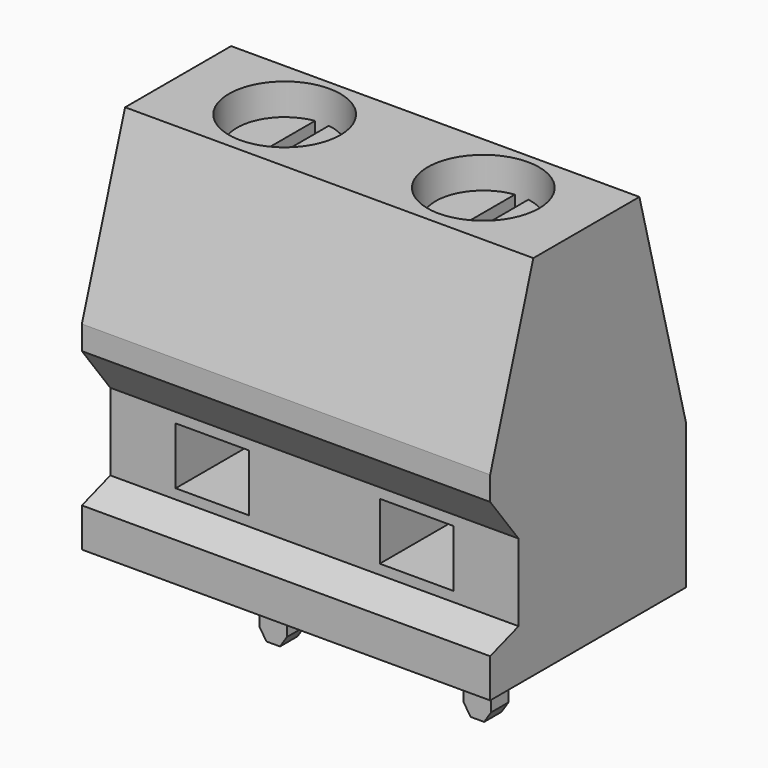
from build123d import *

# Parameters (mm, degrees)
F1_DEPTH  = 7.5
F2_W      = 2.7
F2_H      = 2.1
F3_DEPTH  = 6
F4_R      = 2.048943
F5_DEPTH  = 8
F6_R      = 1.752095
F7_DEPTH  = 7
F8_W      = 0.5
F8_H      = 3.777778
F9_DEPTH  = 1
F11_DEPTH = 0.4


with BuildPart() as f1:
    # F0 (on Right) → F1 (new body, symmetric)
    with BuildSketch(Plane.YZ):
        Polygon((-4.5, 1.43037), (-4.5, 0), (4.5, 0), (4.5, 5.302561), (2.354715, 13.5), (-2.515464, 13.5), (-4.5, 7.298536), (-4.5, 6.420307), (-3.194096, 4.703769), (-3.194096, 1.869484), align=None)
    extrude(amount=F1_DEPTH, both=True)

    # F2 (on face) → F3 (cut)
    with BuildSketch(Plane.XZ.offset(3.194096)):
        with Locations((-3.75, 3.283744)):
            Rectangle(F2_W, F2_H)
        with Locations((3.75, 3.283744)):
            Rectangle(F2_W, F2_H)
    extrude(amount=-F3_DEPTH, mode=Mode.SUBTRACT)

    # F4 (on face) → F5 (cut)
    with BuildSketch(Plane.XY.offset(13.5)):
        with Locations((-3.649004, 0)):
            Circle(F4_R)
        with Locations((3.649004, 0)):
            Circle(F4_R)
    extrude(amount=-F5_DEPTH, mode=Mode.SUBTRACT)


with BuildPart() as f7:
    # F6 (on face) → F7 (new body)
    with BuildSketch(Plane.XY.offset(5.5)):
        with Locations((3.649004, 0)):
            Circle(F6_R)
        with Locations((-3.649004, 0)):
            Circle(F6_R)
    extrude(amount=F7_DEPTH)

    # F8 (on face) → F9 (cut)
    with BuildSketch(Plane.XY.offset(12.5)):
        with Locations((-3.668878, -0.014657)):
            Rectangle(F8_W, F8_H)
        with Locations((3.668878, -0.014657)):
            Rectangle(F8_W, F8_H)
    extrude(amount=-F9_DEPTH, mode=Mode.SUBTRACT)


with BuildPart() as f11:
    # F10 (on Front) → F11 (new body, symmetric)
    with BuildSketch(Plane.XZ):
        Polygon((-3.25, 0), (-4.25, 0), (-4.25, -3.113227), (-4, -3.5), (-3.5, -3.5), (-3.25, -3.113227), align=None)
        Polygon((3.25, -3.113227), (3.5, -3.5), (4, -3.5), (4.25, -3.113227), (4.25, 0), (3.25, 0), align=None)
    extrude(amount=F11_DEPTH, both=True)


solid = Compound([f1.part, f7.part, f11.part])
